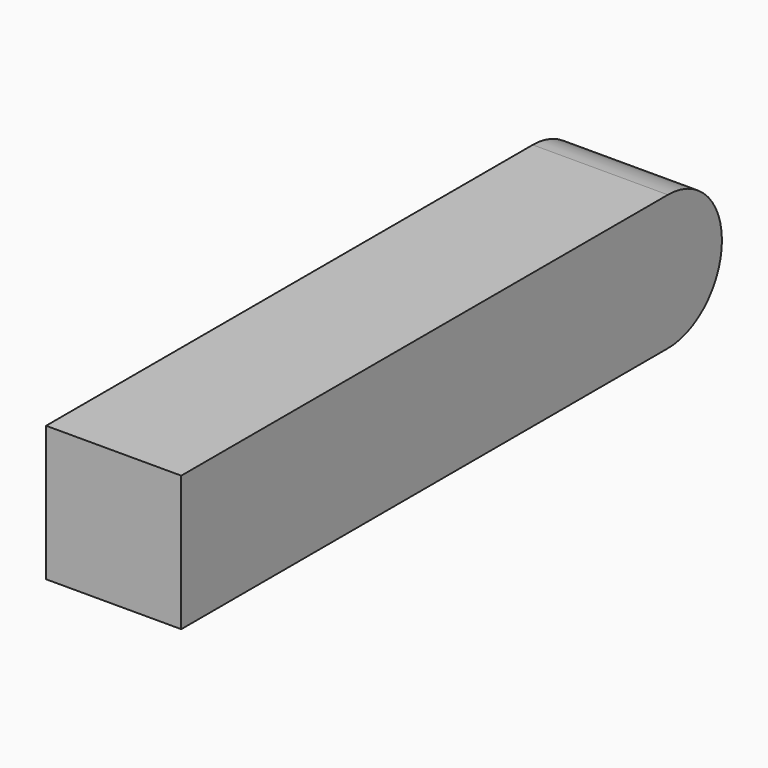
from build123d import *

# Parameters (mm, degrees)
F1_DEPTH = 12


with BuildPart() as f1:
    # F0 (on Right) → F1 (new body)
    with BuildSketch(Plane.YZ):
        with BuildLine():
            Line((0, 12), (0, 0))
            Line((0, 0), (54, 0))
            ThreePointArc((54, 0), (58.242641, 1.757359), (60, 6))
            ThreePointArc((60, 6), (58.242641, 10.242641), (54, 12))
            Line((54, 12), (0, 12))
        make_face()
    extrude(amount=F1_DEPTH)


solid = f1.part
